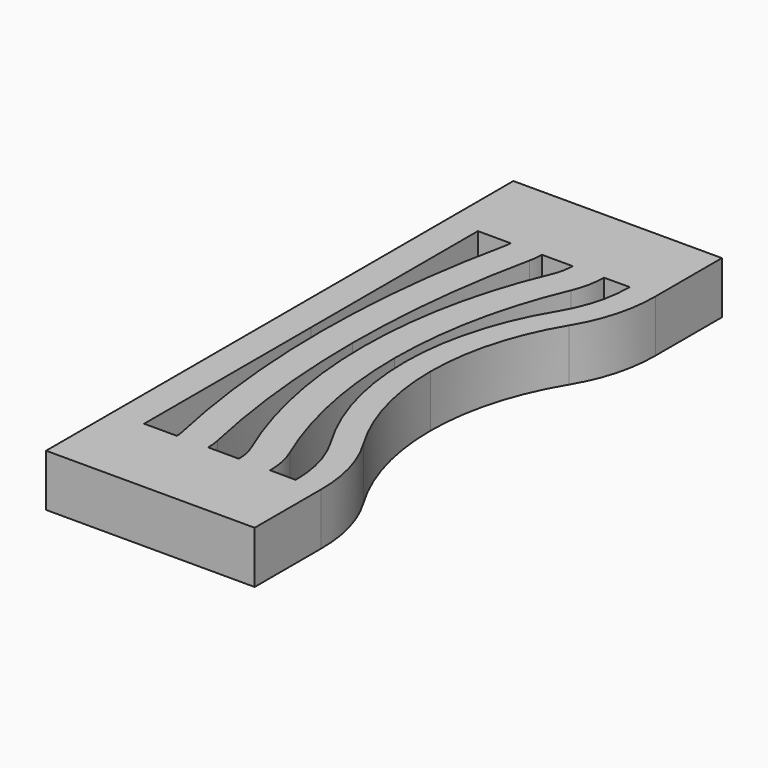
from build123d import *

# Parameters (mm, degrees)
PAD_DEPTH = 2.5


with BuildPart() as part:
    # Sketch → Pad (new body)
    with BuildSketch(Plane.XY):
        with BuildLine():
            Line((-3.5, 1e-05), (-5, 0))
            Line((-5, 0), (-5, 10))
            Line((-5, 10), (-5, 14))
            Line((-5, 14), (5, 14))
            Line((5, 14), (5, 10.017754))
            ThreePointArc((3.940727, 6.163882), (4.737162, 8.017486), (5, 10.017754))
            ThreePointArc((3.940727, 6.163882), (2.660853, 3.199304), (2.223533, 0))
            Line((0.995967, 0), (2.223533, 0))
            ThreePointArc((2.889985, 6.798595), (1.478319, 3.528746), (0.995967, 0))
            ThreePointArc((2.889985, 6.798595), (3.553374, 8.342393), (3.772469, 10.008344))
            Line((3.772469, 10.008344), (2.542243, 10))
            ThreePointArc((2.219305, 8.420788), (2.460682, 9.194053), (2.542243, 10))
            ThreePointArc((2.219305, 8.420788), (0.932219, 4.297526), (0.497311, 0))
            Line((0.497311, 0), (-1.002689, 0))
            ThreePointArc((0.839722, 9.009643), (-0.537369, 4.598047), (-1.002689, 0))
            ThreePointArc((0.839722, 9.009643), (0.991094, 9.494574), (1.042243, 10))
            Line((1.042243, 10), (-0.431539, 10))
            ThreePointArc((-0.502671, 9.335096), (-0.449373, 9.665651), (-0.431539, 10))
            ThreePointArc((-0.502671, 9.335096), (-1.250966, 4.694181), (-1.501344, 0))
            Line((-3.001344, 0), (-1.501344, 0))
            ThreePointArc((-1.968725, 9.652406), (-2.742455, 4.853742), (-3.001344, 0))
            ThreePointArc((-1.968725, 9.652406), (-1.940862, 9.825211), (-1.931539, 10))
            Line((-3.5, 10), (-1.931539, 10))
            Line((-3.5, 10), (-3.5, 1e-05))
        make_face()
    pad = extrude(amount=PAD_DEPTH)

    # Mirrored: Pad across Sketch H_Axis
    add(pad.mirror(Plane.ZX))


solid = part.part
